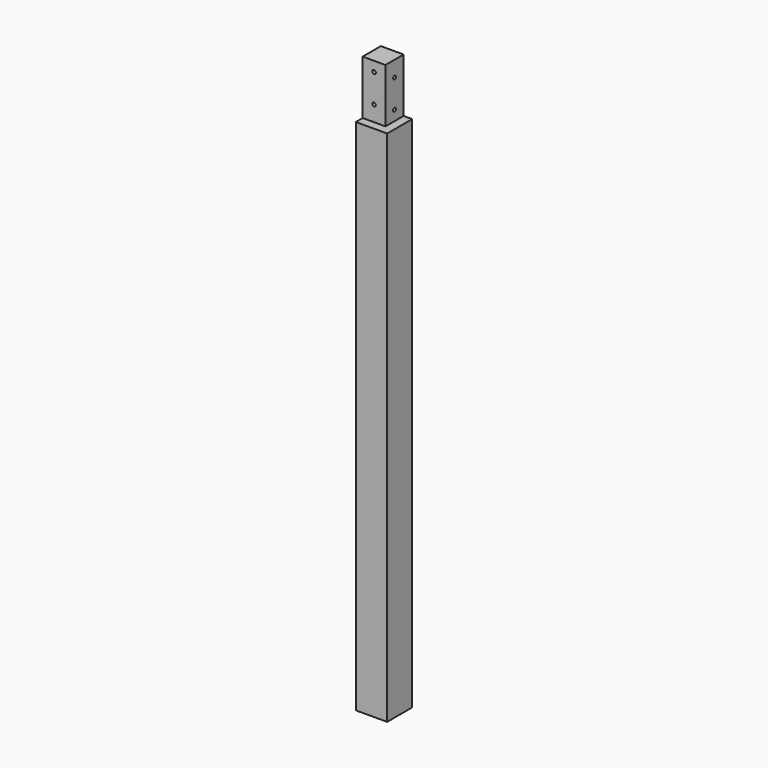
from build123d import *

# Parameters (mm, degrees)
F0_W          = 139.7
F0_H          = 139.7
F1_DEPTH      = 2552.7
F2_W          = 38.1
F2_H          = 241.3
F3_DEPTH      = 69.851
F3_DEPTH_BACK = 69.851
F4_W          = 38.1
F4_H          = 241.3
F5_DEPTH      = 69.851
F5_DEPTH_BACK = 69.851
F7_D          = 15.875
F9_D          = 15.875


with BuildPart() as f1:
    # F0 (on Top) → F1 (new body)
    with BuildSketch(Plane.XY):
        Rectangle(F0_W, F0_H)
    extrude(amount=-F1_DEPTH)

    # F2 (on Front) → F3 (cut, two sides)
    with BuildSketch(Plane.XZ) as f3_sk:
        with Locations((50.8, -120.65)):
            Rectangle(F2_W, F2_H)
    extrude(amount=F3_DEPTH, mode=Mode.SUBTRACT)
    extrude(f3_sk.sketch, amount=-F3_DEPTH_BACK, mode=Mode.SUBTRACT)

    # F4 (on Right) → F5 (cut, two sides)
    with BuildSketch(Plane.YZ) as f5_sk:
        with Locations((-50.8, -120.65)):
            Rectangle(F4_W, F4_H)
    extrude(amount=F5_DEPTH, mode=Mode.SUBTRACT)
    extrude(f5_sk.sketch, amount=-F5_DEPTH_BACK, mode=Mode.SUBTRACT)

    # F7 (through all)
    with Locations(Plane.XZ.offset(31.75)):
        with Locations((-19.05, -44.45), (-19.05, -171.45)):
            Hole(F7_D / 2)

    # F9 (through all)
    with Locations(Plane.YZ.offset(31.75)):
        with Locations((19.05, -69.85), (19.05, -196.85)):
            Hole(F9_D / 2)


solid = f1.part
